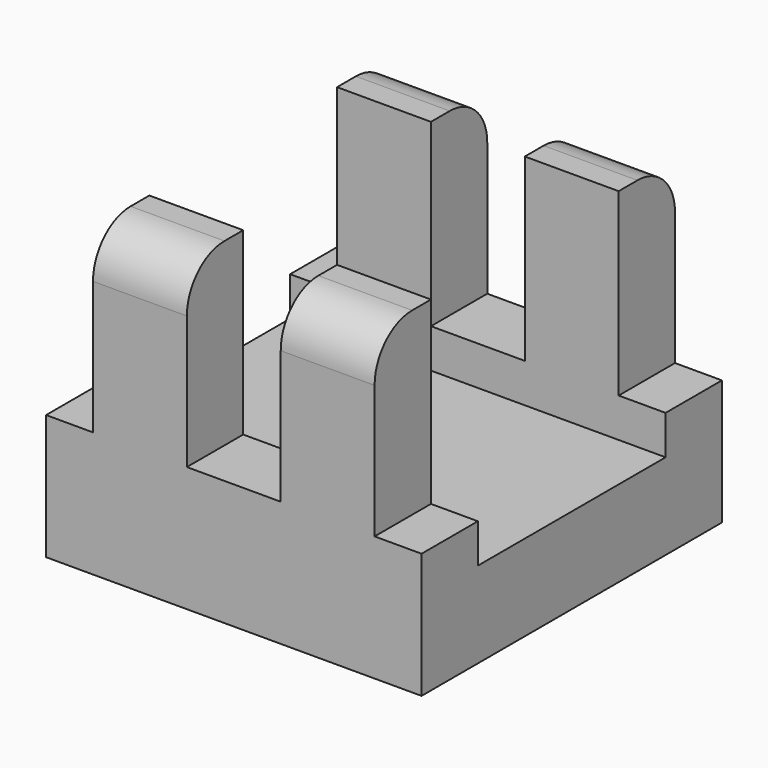
from build123d import *

# Parameters (mm, degrees)
F0_W     = 3
F0_H     = 4.5
F0_W_2   = 6
F1_DEPTH = 4
F2_DEPTH = 1.5
F3_DEPTH = 4
F4_DEPTH = 15.5
F5_R     = 3


with BuildPart() as f1:
    # F0 (on Top) → F1 (new body)
    with BuildSketch(Plane.XY):
        Polygon((12, -7.5), (12, 7.5), (9, 7.5), (3, 7.5), (-3, 7.5), (-9, 7.5), (-12, 7.5), (-12, -7.5), (-9, -7.5), (-3, -7.5), (3, -7.5), (9, -7.5), align=None)
        with BuildLine():
            ThreePointArc((7, -3), (6.1213203436, -5.1213203436), (4, -6))
            Line((4, -6), (-4, -6))
            ThreePointArc((-4, -6), (-6.1213203436, -5.1213203436), (-7, -3))
            Line((-7, -3), (-7, 3))
            ThreePointArc((-7, 3), (-6.1213203436, 5.1213203436), (-4, 6))
            Line((-4, 6), (4, 6))
            ThreePointArc((4, 6), (6.1213203436, 5.1213203436), (7, 3))
            Line((7, 3), (7, -3))
        make_face(mode=Mode.SUBTRACT)
        with Locations((10.5, -9.75)):
            Rectangle(F0_W, F0_H)
        with Locations((6, -9.75)):
            Rectangle(F0_W_2, F0_H)
        with Locations((0, -9.75)):
            Rectangle(F0_W_2, F0_H)
        with Locations((-6, -9.75)):
            Rectangle(F0_W_2, F0_H)
        with Locations((-10.5, -9.75)):
            Rectangle(F0_W, F0_H)
        with Locations((-10.5, 9.75)):
            Rectangle(F0_W, F0_H)
        with Locations((-6, 9.75)):
            Rectangle(F0_W_2, F0_H)
        with Locations((0, 9.75)):
            Rectangle(F0_W_2, F0_H)
        with Locations((6, 9.75)):
            Rectangle(F0_W_2, F0_H)
        with Locations((10.5, 9.75)):
            Rectangle(F0_W, F0_H)
    extrude(amount=-F1_DEPTH)

    # F0 (on Top) → F2 (join)
    with BuildSketch(Plane.XY):
        Polygon((12, -7.5), (12, 7.5), (9, 7.5), (3, 7.5), (-3, 7.5), (-9, 7.5), (-12, 7.5), (-12, -7.5), (-9, -7.5), (-3, -7.5), (3, -7.5), (9, -7.5), align=None)
        with BuildLine():
            ThreePointArc((7, -3), (6.1213203436, -5.1213203436), (4, -6))
            Line((4, -6), (-4, -6))
            ThreePointArc((-4, -6), (-6.1213203436, -5.1213203436), (-7, -3))
            Line((-7, -3), (-7, 3))
            ThreePointArc((-7, 3), (-6.1213203436, 5.1213203436), (-4, 6))
            Line((-4, 6), (4, 6))
            ThreePointArc((4, 6), (6.1213203436, 5.1213203436), (7, 3))
            Line((7, 3), (7, -3))
        make_face(mode=Mode.SUBTRACT)
        with BuildLine():
            Line((-4, -6), (4, -6))
            ThreePointArc((4, -6), (6.1213203436, -5.1213203436), (7, -3))
            Line((7, -3), (7, 3))
            ThreePointArc((7, 3), (6.1213203436, 5.1213203436), (4, 6))
            Line((4, 6), (-4, 6))
            ThreePointArc((-4, 6), (-6.1213203436, 5.1213203436), (-7, 3))
            Line((-7, 3), (-7, -3))
            ThreePointArc((-7, -3), (-6.1213203436, -5.1213203436), (-4, -6))
        make_face()
    extrude(amount=F2_DEPTH)

    # F0 (on Top) → F3 (join)
    with BuildSketch(Plane.XY):
        with Locations((10.5, 9.75)):
            Rectangle(F0_W, F0_H)
        with Locations((0, 9.75)):
            Rectangle(F0_W_2, F0_H)
        with Locations((-10.5, 9.75)):
            Rectangle(F0_W, F0_H)
        with Locations((-10.5, -9.75)):
            Rectangle(F0_W, F0_H)
        with Locations((0, -9.75)):
            Rectangle(F0_W_2, F0_H)
        with Locations((10.5, -9.75)):
            Rectangle(F0_W, F0_H)
    extrude(amount=F3_DEPTH)

    # F0 (on Top) → F4 (join)
    with BuildSketch(Plane.XY):
        with Locations((-6, 9.75)):
            Rectangle(F0_W_2, F0_H)
        with Locations((6, 9.75)):
            Rectangle(F0_W_2, F0_H)
        with Locations((6, -9.75)):
            Rectangle(F0_W_2, F0_H)
        with Locations((-6, -9.75)):
            Rectangle(F0_W_2, F0_H)
    extrude(amount=F4_DEPTH)

    # F5
    f5_edges = [f1.edges().sort_by_distance(p)[0] for p in [
        (6, 12, 15.5),
        (-6, 12, 15.5),
        (6, -12, 15.5),
        (-6, -12, 15.5),
    ]]
    fillet(f5_edges, radius=F5_R)


solid = f1.part
